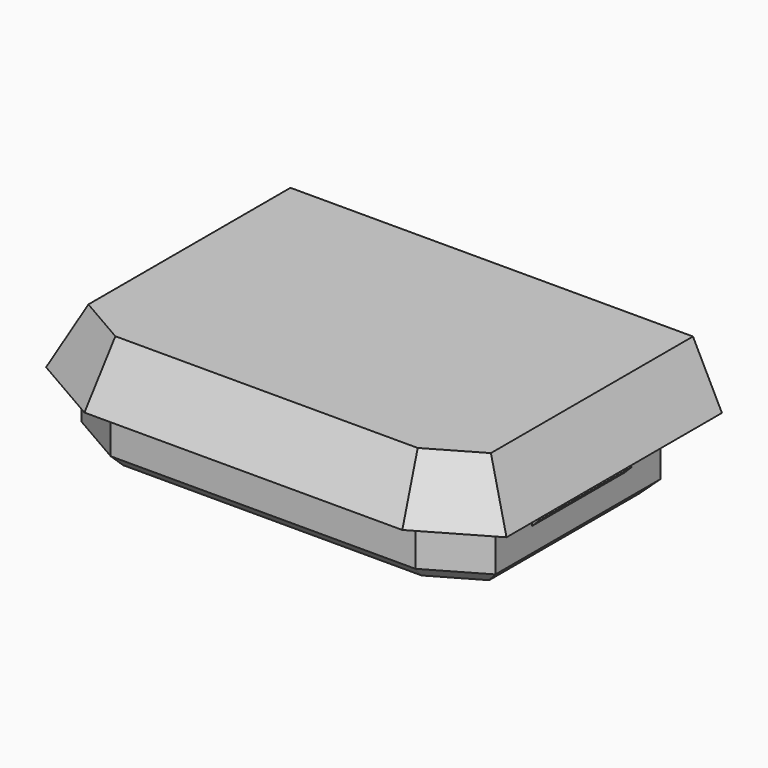
from build123d import *

# Parameters (mm, degrees)
PAD004_DEPTH    = 4
CHAMFER002_SIZE = 0.8
PAD015_DEPTH    = 4
SKETCH039_R     = 1.075
POCKET005_DEPTH = 10
FILLET003_R     = 0.8


with BuildPart() as part:
    # Sketch015 → AdditiveLoft001 section 0
    with BuildSketch(Plane.XY.offset(36)):
        Polygon((-15.9, 10.72), (15.9, 10.72), (15.9, -7.877957), (10.977437, -10.72), (-10.977437, -10.72), (-15.9, -7.877957), align=None)
    # Sketch016 → AdditiveLoft001 section 1
    with BuildSketch(Plane.XY.offset(40)):
        Polygon((-13.9, -6.723257), (-13.9, 10.72), (13.9, 10.72), (13.9, -6.723257), (10.441539, -8.72), (-10.441539, -8.72), align=None)
    loft()

    # Sketch017 → Pad004 (new body)
    with BuildSketch(Plane.XY.offset(36)):
        Polygon((-14.3, 7.42), (14.3, 7.42), (14.3, -6.838727), (10.521924, -9.02), (-10.521924, -9.02), (-14.3, -6.838727), align=None)
        Polygon((-11.1, 4.22), (11.1, 4.22), (11.1, -4.991206), (9.664486, -5.82), (-9.664486, -5.82), (-11.1, -4.991206), align=None, mode=Mode.SUBTRACT)
    extrude(amount=-PAD004_DEPTH)

    # Chamfer002
    chamfer002_edges = [part.edges().sort_by_distance(p)[0] for p in [
        (-14.3, 0.290637, 32),
        (-12.410962, -7.929363, 32),
        (0, -9.02, 32),
        (12.410962, -7.929363, 32),
        (14.3, 0.290637, 32),
        (0, 7.42, 32),
    ]]
    chamfer(chamfer002_edges, length=CHAMFER002_SIZE)

    # Sketch040 (on DatumPlane) → Pad015 (join, symmetric)
    with BuildSketch(Plane(origin=(-14.8, 0.311769, 0), x_dir=(-1, 0, 0), z_dir=(0, 1, 0))):
        Polygon((-29.6, 34.958579), (-29.1, 35.458579), (-29.1, 34.458579), align=None)
        Polygon((0, 34.958579), (-0.5, 35.458579), (-0.5, 34.458579), align=None)
    extrude(amount=PAD015_DEPTH, both=True)

    # Sketch018 → AdditiveLoft002 section 0
    with BuildSketch(Plane.XY.offset(36)):
        with BuildLine():
            add(Edge.make_bspline(
                [(-7.8, -1.12), (-7.8, 3.210127), (-12.675, 1.045064), (-17.55, -1.12), (-12.675, -3.285064), (-7.8, -5.450127), (-7.8, -1.12)],
                knots=[0, 0, 0, 2.094395, 2.094395, 4.18879, 4.18879, 6.283185, 6.283185, 6.283185], degree=2, weights=[1, 0.5, 1, 0.5, 1, 0.5, 1]))
        make_face()
    # Sketch019 → AdditiveLoft002 section 1
    with BuildSketch(Plane.XY.offset(32)):
        with BuildLine():
            add(Edge.make_bspline(
                [(-4.55, -1.12), (-4.55, 3.210127), (-9.425, 1.045064), (-14.3, -1.12), (-9.425, -3.285064), (-4.55, -5.450127), (-4.55, -1.12)],
                knots=[0, 0, 0, 2.094395, 2.094395, 4.18879, 4.18879, 6.283185, 6.283185, 6.283185], degree=2, weights=[1, 0.5, 1, 0.5, 1, 0.5, 1]))
        make_face()
    loft()

    # Sketch039 (on DatumPlane) → Pocket005 (cut)
    with BuildSketch(Plane(origin=(-4.55, -1.12, 32), x_dir=(0, -1, 0), z_dir=(-0.630593, 0, 0.776114))):
        with Locations((0, -2.522371)):
            Circle(SKETCH039_R)
    extrude(amount=POCKET005_DEPTH, mode=Mode.SUBTRACT)

    # Fillet003
    fillet003_edges = [part.edges().sort_by_distance(p)[0] for p in [
        (-7.799837, -0.045, 32),
    ]]
    fillet(fillet003_edges, radius=FILLET003_R)


solid = part.part
